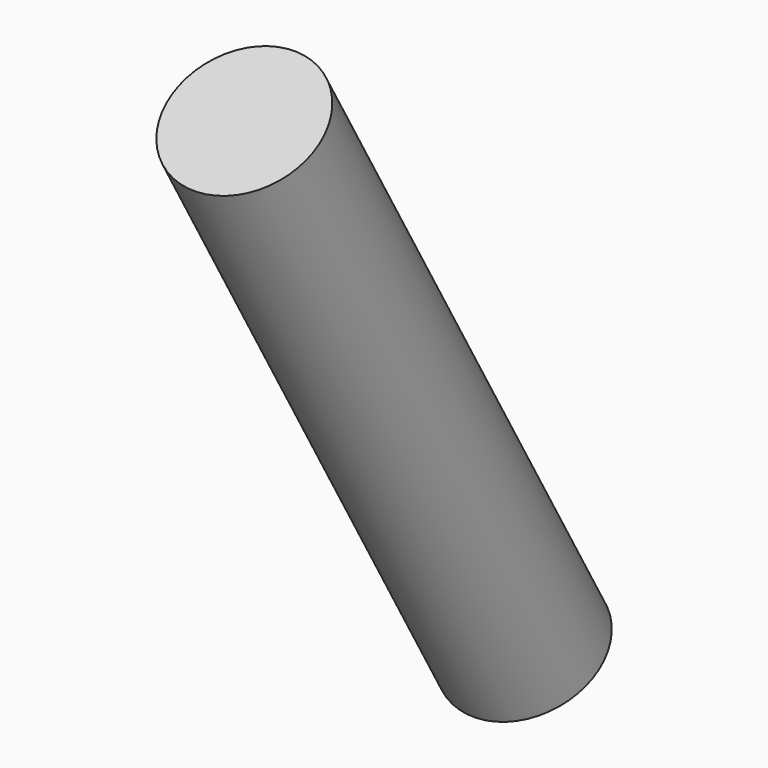
from build123d import *

# Parameters (mm, degrees)
F1_DEPTH = 101.6
F2_ANGLE = 30


with BuildPart() as f1:
    # F0 (on Top) → F1 (new body)
    with BuildSketch(Plane.XY):
        with BuildLine():
            Line((-10.5195328858, 0), (10.5195328858, 0))
            ThreePointArc((10.5195328858, 0), (0, 10.5195328858), (-10.5195328858, 0))
        make_face()
        with BuildLine():
            ThreePointArc((-10.5195328858, 0), (0, -10.5195328858), (10.5195328858, 0))
            Line((10.5195328858, 0), (-10.5195328858, 0))
        make_face()
    extrude(amount=F1_DEPTH)


with BuildPart() as f1_1:
    # F2: moved
    add(f1.part.rotate(Axis((0, 0, 0), (1, 0, 0)), F2_ANGLE))


solid = f1_1.part
